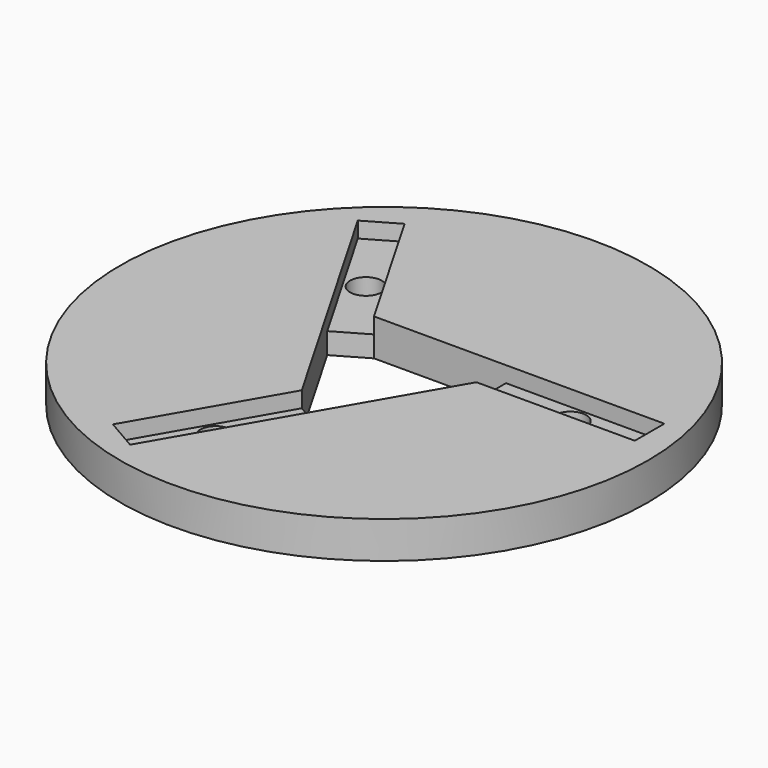
from build123d import *

# Parameters (mm, degrees)
SKETCH_R        = 50
PAD_DEPTH       = 7
POCKET_DEPTH    = 7.001
SKETCH005_W     = 30
SKETCH005_H     = 7
POCKET001_DEPTH = 3
SKETCH030_R     = 3
POCKET022_DEPTH = 15


with BuildPart() as part:
    # Sketch → Pad (new body)
    with BuildSketch(Plane.XY):
        with Locations((54.312531, 53.68195)):
            Circle(SKETCH_R)
    extrude(amount=PAD_DEPTH)

    # Sketch004 (on Face3 of Pad) → Pocket (cut, through all)
    with BuildSketch(Plane.XY.offset(7)):
        Polygon((56.333257, 35.748194), (68.833257, 57.398829), (68.833257, 64.398829), (43.833257, 64.398829), (37.771079, 60.898829), (50.271079, 39.248194), align=None)
    extrude(amount=-POCKET_DEPTH, mode=Mode.SUBTRACT)

    # Sketch005 (on Face3 of Pocket) → Pocket001 (cut)
    with BuildSketch(Plane.XY.offset(7)):
        with Locations((83.833257, 60.898829)):
            Rectangle(SKETCH005_W, SKETCH005_H)
        Polygon((56.333257, 35.748194), (41.333257, 9.767432), (35.271079, 13.267432), (50.271079, 39.248194), align=None)
        Polygon((37.771079, 60.898829), (22.771079, 86.879591), (28.833257, 90.379591), (43.833257, 64.398829), align=None)
    extrude(amount=-POCKET001_DEPTH, mode=Mode.SUBTRACT)

    # Sketch030 (on Face3 of Pocket001) → Pocket022 (cut)
    with BuildSketch(Plane.XY.offset(7)):
        with Locations((45.802168, 24.507813)):
            Circle(SKETCH030_R)
        with Locations((33.302168, 75.63921)):
            Circle(SKETCH030_R)
        with Locations((83.833257, 60.898829)):
            Circle(SKETCH030_R)
    extrude(amount=-POCKET022_DEPTH, mode=Mode.SUBTRACT)


with BuildPart() as part_1:
    # Clone001 placement: moved
    add(part.part.moved(Location((93, 4, 0))))


solid = part_1.part
